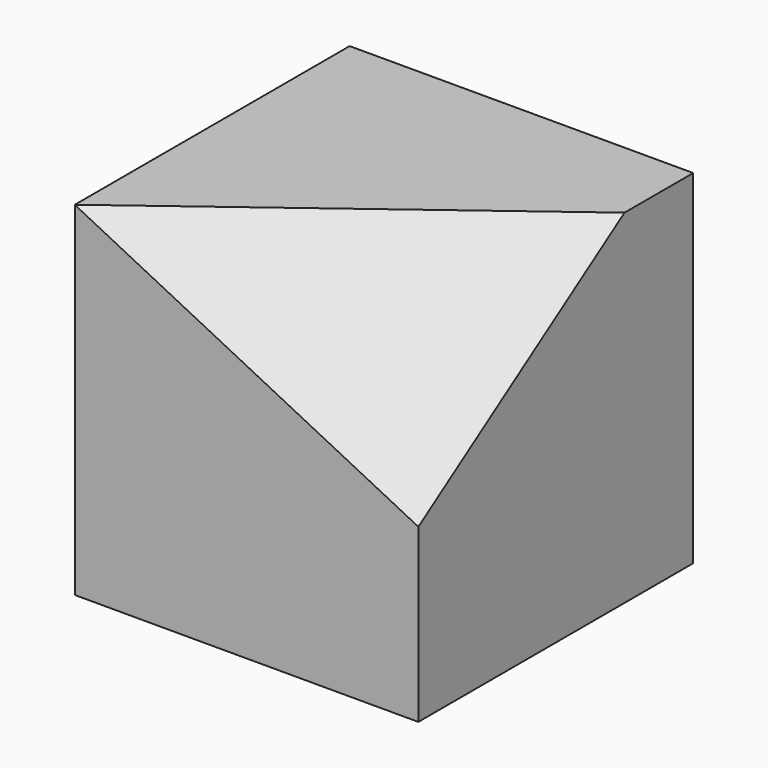
from build123d import *

# Parameters (mm, degrees)
F1_DEPTH = 4
F6_DEPTH = 25


with BuildPart() as f1:
    # F0 (on Front) → F1 (new body)
    with BuildSketch(Plane.XZ):
        Polygon((0, 4), (0, 0), (4, 0), (4, 2), align=None)
        Polygon((4, 4), (0, 4), (4, 2), align=None)
    extrude(amount=-F1_DEPTH)

    # F5 (on 3pt) → F6 (cut)
    with BuildSketch(Plane(origin=(1.1803278689, -1.5737704918, 2.3606557377), x_dir=(0.9232870715, 0.2130662473, -0.3195993709), z_dir=(0.3841106398, -0.5121475197, 0.7682212796))):
        Polygon((3.0539495442, 1.1094003925), (3.0539495442, 4.7149516679), (-1.2783974836, 2.2188007849), align=None)
    extrude(amount=F6_DEPTH, mode=Mode.SUBTRACT)


solid = f1.part
